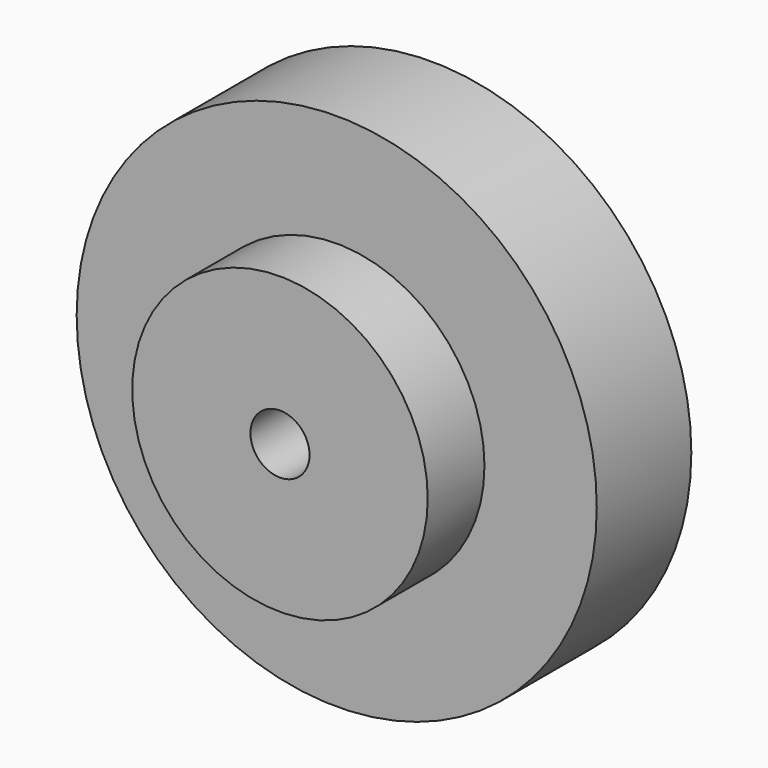
from build123d import *

# Parameters (mm, degrees)
F0_R     = 12.5
F0_R_2   = 2.5
F1_DEPTH = 6
F0_R_3   = 22
F2_DEPTH = 10


with BuildPart() as f1:
    # F0 (on Front) → F1 (new body)
    with BuildSketch(Plane.XZ):
        Circle(F0_R)
        Circle(F0_R_2, mode=Mode.SUBTRACT)
    extrude(amount=F1_DEPTH)

    # F0 (on Front) → F2 (join)
    with BuildSketch(Plane.XZ):
        Circle(F0_R_3)
        Circle(F0_R, mode=Mode.SUBTRACT)
        Circle(F0_R)
        Circle(F0_R_2, mode=Mode.SUBTRACT)
    extrude(amount=-F2_DEPTH)


solid = f1.part
